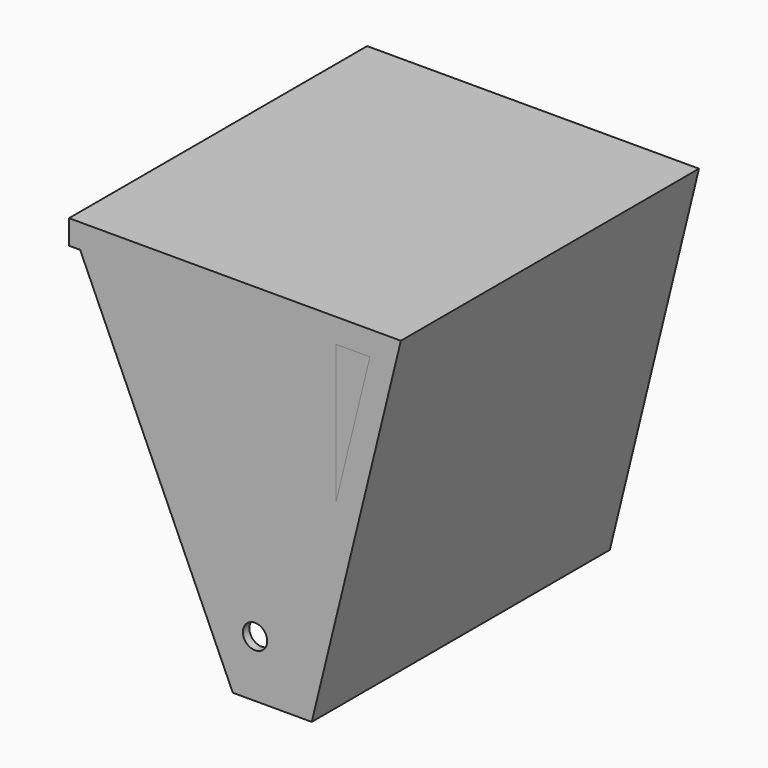
from build123d import *

# Parameters (mm, degrees)
F0_W      = 540
F0_H      = 390
F1_DEPTH  = 10
F2_W      = 80
F2_H      = 80
F2_R      = 15
F3_DEPTH  = 10
F4_R      = 15
F5_DEPTH  = 25
F7_DEPTH  = 25
F8_W      = 80
F8_H      = 80
F8_R      = 15
F9_DEPTH  = 25
F11_DEPTH = 10
F13_DEPTH = 450
F15_DEPTH = 10


with BuildPart() as f1:
    # F0 (on Front) → F1 (new body)
    with BuildSketch(Plane.XZ):
        Polygon((-575.5810141563, 243.9473703504), (-465.5810141563, -206.0526296496), (133.660423523, -206.0526296496), (243.660423523, 243.9473703504), (133.660423523, 243.9473703504), (-465.5810141563, 243.9473703504), align=None)
        with Locations((-166.339576477, 18.9473703504)):
            Rectangle(F0_W, F0_H, mode=Mode.SUBTRACT)
        Polygon((-495.5810141563, 43.0153865893), (-537.3643879646, 213.9473703504), (-495.5810141563, 213.9473703504), align=None, mode=Mode.SUBTRACT)
        Polygon((163.660423523, 213.9473703504), (205.4437973313, 213.9473703504), (163.660423523, 43.0153865893), align=None, mode=Mode.SUBTRACT)
    extrude(amount=F1_DEPTH)

    # F2 (on face) → F3 (join)
    with BuildSketch(Plane.XZ.offset(10)):
        with Locations((-396.339576477, 173.9473703504)):
            Rectangle(F2_W, F2_H)
        with Locations((-396.339576477, 173.9473703504)):
            Circle(F2_R, mode=Mode.SUBTRACT)
        with Locations((63.660423523, 173.9473703504)):
            Rectangle(F2_W, F2_H)
        with Locations((63.660423523, 173.9473703504)):
            Circle(F2_R, mode=Mode.SUBTRACT)
        with Locations((63.660423523, -136.0526296496)):
            Rectangle(F2_W, F2_H)
        with Locations((63.660423523, -136.0526296496)):
            Circle(F2_R, mode=Mode.SUBTRACT)
        with Locations((-396.339576477, -136.0526296496)):
            Rectangle(F2_W, F2_H)
        with Locations((-396.339576477, -136.0526296496)):
            Circle(F2_R, mode=Mode.SUBTRACT)
    extrude(amount=-F3_DEPTH)

    # F4 (on face) → F5 (cut)
    with BuildSketch(Plane.XZ.offset(10)):
        Polygon((-669.6358919144, -206.0526296496), (-465.5810141563, -206.0526296496), (-575.5810141563, 243.9473703504), (-669.6358919144, 243.9473703504), align=None)
        Polygon((-465.5810141563, -206.0526296496), (-165.9602953167, -206.0526296496), (-165.9602953167, -176.0526296496), (-356.339576477, -176.0526296496), (-356.339576477, -96.0526296496), (-436.339576477, -96.0526296496), (-436.339576477, 133.9473703504), (-356.339576477, 133.9473703504), (-356.339576477, 213.9473703504), (-165.9602953167, 213.9473703504), (-165.9602953167, 243.9473703504), (-575.5810141563, 243.9473703504), align=None)
        with Locations((-396.339576477, -136.0526296496)):
            Circle(F4_R, mode=Mode.SUBTRACT)
        Polygon((-495.5810141563, 213.9473703504), (-495.5810141563, 43.0153865893), (-537.3643879646, 213.9473703504), align=None, mode=Mode.SUBTRACT)
        with Locations((-396.339576477, 173.9473703504)):
            Circle(F4_R, mode=Mode.SUBTRACT)
        Polygon((-356.339576477, -176.0526296496), (-165.9602953167, -176.0526296496), (-165.9602953167, 213.9473703504), (-356.339576477, 213.9473703504), (-356.339576477, 133.9473703504), (-436.339576477, 133.9473703504), (-436.339576477, -96.0526296496), (-356.339576477, -96.0526296496), align=None)
    extrude(amount=-F5_DEPTH, mode=Mode.SUBTRACT)

    # F6 (on face) → F7 (cut)
    with BuildSketch(Plane.XZ.offset(10)):
        Polygon((36.2046845257, -206.0526296496), (23.660423523, -176.0526296496), (-165.9602953167, -176.0526296496), (-165.9602953167, -206.0526296496), align=None)
    extrude(amount=-F7_DEPTH, mode=Mode.SUBTRACT)

    # F8 (on face) → F9 (cut)
    with BuildSketch(Plane.XZ.offset(10)):
        with Locations((63.660423523, 173.9473703504)):
            Rectangle(F8_W, F8_H)
        with Locations((63.660423523, 173.9473703504)):
            Circle(F8_R, mode=Mode.SUBTRACT)
    extrude(amount=-F9_DEPTH, mode=Mode.SUBTRACT)

    # F12 (on face) → F13 (join)
    with BuildSketch(Plane(origin=(0, 0, 0), x_dir=(-1, 0, 0), z_dir=(0, 1, 0))):
        Polygon((165.9602953167, 243.9473703504), (-243.660423523, 243.9473703504), (-133.660423523, -206.0526296496), (-36.2046845257, -206.0526296496), (-32.0232641915, -196.0526296496), (-36.2046845257, -196.0526296496), (-125.8104370147, -196.0526296496), (-230.9215481258, 233.9473703504), (165.9602953167, 233.9473703504), align=None)
    extrude(amount=F13_DEPTH)

    # F14 (on face) → F15 (join)
    with BuildSketch(Plane.XZ.offset(10)):
        Polygon((-152.2566229105, 213.9473703504), (36.2046845257, -206.0526296496), (23.660423523, -176.0526296496), (23.660423523, -96.0526296496), (103.660423523, -96.0526296496), (103.660423523, 213.9473703504), align=None)
    extrude(amount=-F15_DEPTH)


with BuildPart() as f11:
    # F10 (on face) → F11 (new body)
    with BuildSketch(Plane.XZ.offset(10)):
        Polygon((205.4437973313, 213.9473703504), (163.660423523, 213.9473703504), (163.660423523, 43.0153865893), align=None)
    extrude(amount=-F11_DEPTH)


solid = Compound([f1.part, f11.part])
